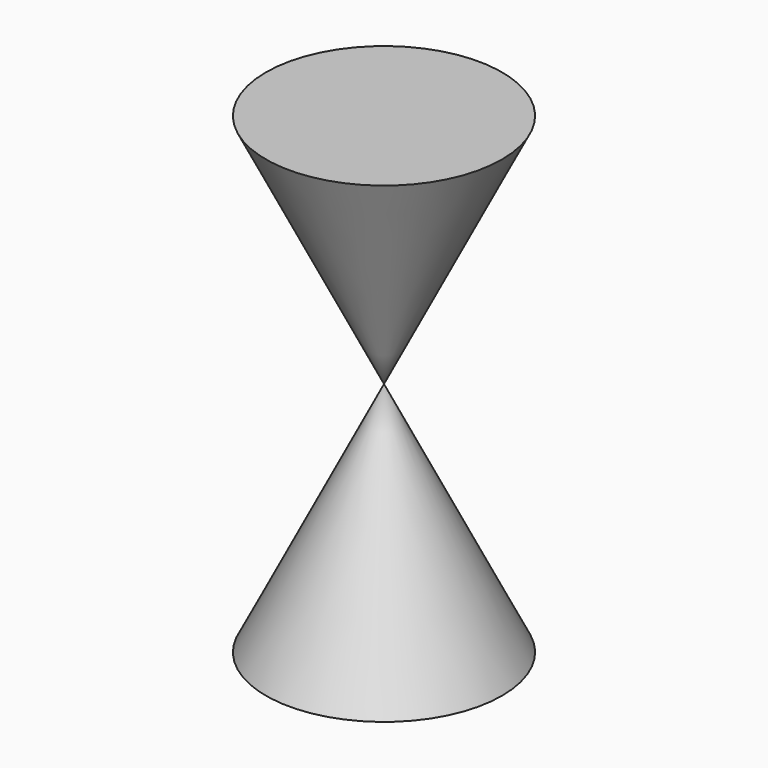
from build123d import *


with BuildPart() as f1:
    # F0 (on Front) → F1 (revolve)
    with BuildSketch(Plane.XZ):
        Polygon((0, 50.8), (0, 0), (25.4, 0), align=None)
    revolve(axis=Axis((0, 0, 25.4), (0, 0, 1)))


with BuildPart() as f3_1:
    # F3: instance of F1
    add(f1.part.mirror(Plane.XY.offset(50.8)))


solid = Compound([f1.part, f3_1.part])
